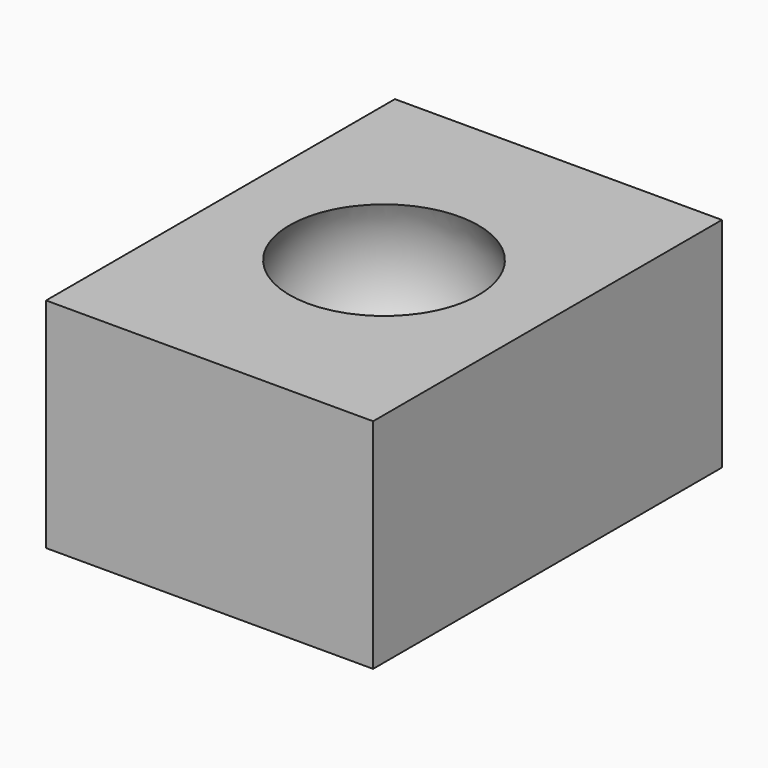
from build123d import *

# Parameters (mm, degrees)
F0_W     = 38.1
F0_H     = 50.8
F1_DEPTH = 25.4


with BuildPart() as f1:
    # F0 (on Top) → F1 (new body)
    with BuildSketch(Plane.XY):
        Rectangle(F0_W, F0_H)
    extrude(amount=F1_DEPTH)

    # F3 (on offset) → F4 (revolve, cut)
    with BuildSketch(Plane.XY.offset(19.05)):
        with BuildLine():
            ThreePointArc((-12.7, 0), (0, -12.7), (12.7, 0))
            Line((12.7, 0), (-12.7, 0))
        make_face()
    revolve(axis=Axis((0, 0, 19.05), (1, 0, 0)), mode=Mode.SUBTRACT)


solid = f1.part
